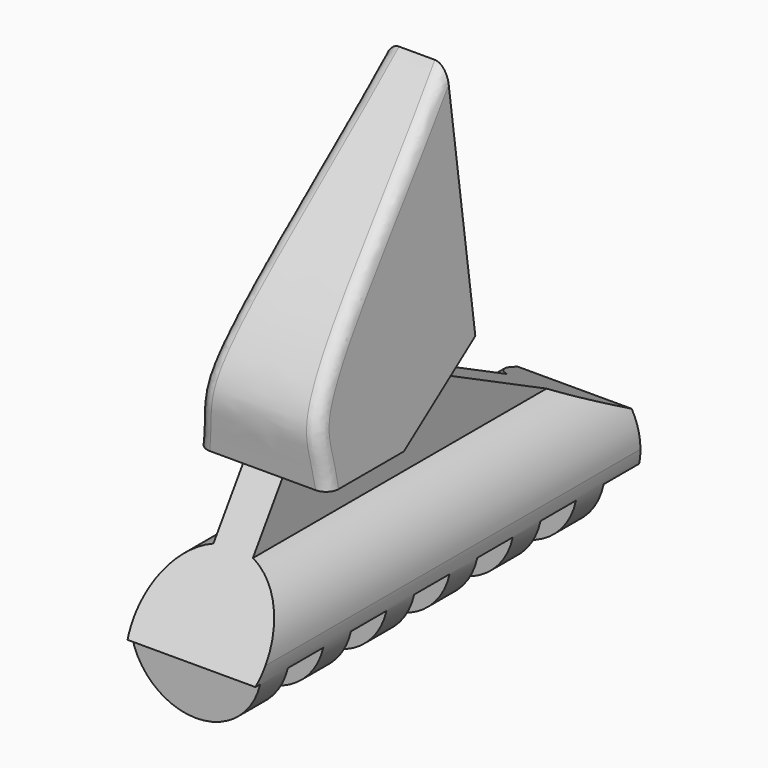
from build123d import *

# Parameters (mm, degrees)
F1_DEPTH  = 5.2959
F2_DEPTH  = 41.276
F4_DEPTH  = 3.7084
F12_DEPTH = 3.7084
F6_DEPTH  = 10.5918
F7_DEPTH  = 41.276
F8_W      = 3.5700032353
F8_H      = 0.1361034085
F8_H_2    = 4.0928895229
F8_H_3    = 0.1088827268
F8_H_4    = 4.1201102046
F8_H_5    = 0.0816620451
F8_H_6    = 4.1473308863
F8_H_7    = 0.0544413634
F8_H_8    = 4.174551568
F8_H_9    = 0.0272206817
F8_H_10   = 4.2017722497
F8_H_11   = 4.2289929314
F14_DEPTH = 12.7
F9_R      = 1.016


with BuildPart() as f1:
    # F0 (on Right) → F1 (new body, symmetric)
    with BuildSketch(Plane.YZ):
        Polygon((25.4, 38.1), (0, 0), (41.275, 0), (41.275, 7.9375), (25.4, 15.875), align=None)
    extrude(amount=F1_DEPTH, both=True)

    # F10 (on Front) → F2 (cut, through all)
    with BuildSketch(Plane.XZ):
        with BuildLine():
            Line((-1.5875, 14.8209), (-5.2959, 14.8209))
            Line((-5.2959, 14.8209), (-5.2959, 5.2959000144))
            ThreePointArc((-5.2959, 5.2959000144), (-4.2692972482, 8.4295333251), (-1.5875, 10.3482658379))
            Line((-1.5875, 10.3482658379), (-1.5875, 14.8209))
        make_face()
        with BuildLine():
            Line((5.2959, 5.2959), (5.2959, 14.8209))
            Line((5.2959, 14.8209), (1.5875, 14.8209))
            Line((1.5875, 14.8209), (1.5875, 10.3482658379))
            ThreePointArc((1.5875, 10.3482658379), (4.2692972525, 8.4295333193), (5.2959, 5.2959))
        make_face()
        with BuildLine():
            ThreePointArc((0, 0), (-3.7447668076, 1.5511332026), (-5.2959, 5.2959000144))
            Line((-5.2959, 5.2959000144), (-5.2959, 0))
            Line((-5.2959, 0), (0, 0))
        make_face()
        with BuildLine():
            ThreePointArc((5.2959, 5.2959), (3.7447668025, 1.5511331975), (0, 0))
            Line((0, 0), (5.2959, 0))
            Line((5.2959, 0), (5.2959, 5.2959))
        make_face()
    extrude(amount=-F2_DEPTH, mode=Mode.SUBTRACT)

    # F3 (on face) → F4 (cut)
    with BuildSketch(Plane.YZ.offset(5.2959)):
        Polygon((17.4625, 14.8209), (27.5082, 14.8209), (25.4, 15.875), (25.4, 19.5834), align=None)
    extrude(amount=-F4_DEPTH, mode=Mode.SUBTRACT)

    # F11 (on face) → F12 (cut)
    with BuildSketch(Plane(origin=(-5.2959, 0, 0), x_dir=(0, -1, 0), z_dir=(-1, 0, 0))):
        Polygon((-27.5082, 14.8209), (-17.4625, 14.8209), (-25.4, 19.5834), (-25.4, 15.875), align=None)
    extrude(amount=-F12_DEPTH, mode=Mode.SUBTRACT)

    # F5 (on face) → F6 (join)
    with BuildSketch(Plane.YZ.offset(5.2959)):
        with BuildLine():
            add(Edge.make_bspline(
                [(9.8806, 14.8209), (9.7887178245, 17.0000575052), (7.8190504565, 20.9662638554), (18.9792610557, 30.802658642), (25.4, 38.1)],
                knots=[0, 0, 0, 0, 0.3217761524, 1, 1, 1, 1], degree=3))
            Line((9.8806, 14.8209), (25.4, 38.1))
        make_face()
    extrude(amount=-F6_DEPTH)

    # F13 (on Front) → F7 (cut, through all)
    with BuildSketch(Plane.XZ):
        with BuildLine():
            add(Edge.make_bspline(
                [(-5.2959, 14.8209), (-5.2959, 15.5472858351), (-5.2959, 17.5957404535), (-5.2959, 22.9229933342), (-5.2959, 29.9563074991), (-5.2959, 35.6675528807), (-5.2959, 38.1)],
                knots=[0, 0, 0, 0, 2.1791575052, 6.1453638554, 15.981758642, 23.2791, 23.2791, 23.2791, 23.2791], degree=3))
            Line((-5.2959, 14.8209), (-2.38125, 38.1))
            Line((-2.38125, 38.1), (-5.2959, 38.1))
        make_face()
        with BuildLine():
            Line((2.38125, 38.1), (5.2959, 14.8209))
            add(Edge.make_bspline(
                [(5.2959, 14.8209), (5.2959, 15.5472858351), (5.2959, 17.5957404535), (5.2959, 22.9229933342), (5.2959, 29.9563074991), (5.2959, 35.6675528807), (5.2959, 38.1)],
                knots=[0, 0, 0, 0, 2.1791575052, 6.1453638554, 15.981758642, 23.2791, 23.2791, 23.2791, 23.2791], degree=3))
            Line((5.2959, 38.1), (2.38125, 38.1))
        make_face()
    extrude(amount=-F7_DEPTH, mode=Mode.SUBTRACT)

    # F8 (on Right) → F14 (cut, symmetric)
    with BuildSketch(Plane.YZ):
        Polygon((3.1753500641, -0.1633240902), (3.1753500641, 0), (3.1753500641, 4.0656688412), (-0.3946531713, 4.0656688412), (-0.3946531713, -0.1633240902), align=None)
        with Locations((7.7402901024, -0.0680517042)):
            Rectangle(F8_W, F8_H)
        with Locations((7.7402901024, 2.0464447615)):
            Rectangle(F8_W, F8_H_2)
        with Locations((14.0902317584, -0.0544413634)):
            Rectangle(F8_W, F8_H_3)
        with Locations((14.0902317584, 2.0600551023)):
            Rectangle(F8_W, F8_H_4)
        with Locations((20.4401734144, -0.0408310225)):
            Rectangle(F8_W, F8_H_5)
        with Locations((20.4401734144, 2.0736654432)):
            Rectangle(F8_W, F8_H_6)
        with Locations((26.7901150703, -0.0272206817)):
            Rectangle(F8_W, F8_H_7)
        with Locations((26.7901150703, 2.087275784)):
            Rectangle(F8_W, F8_H_8)
        with Locations((33.1400567263, -0.0136103408)):
            Rectangle(F8_W, F8_H_9)
        with Locations((33.1400567263, 2.1008861249)):
            Rectangle(F8_W, F8_H_10)
        with Locations((39.4899983823, 2.1144964657)):
            Rectangle(F8_W, F8_H_11)
    extrude(amount=F14_DEPTH, both=True, mode=Mode.SUBTRACT)

    # F9
    f9_edges = [f1.edges().sort_by_distance(p)[0] for p in [
        (3.714975, 15.399413, 27.447632),
        (-3.714975, 15.399413, 27.447632),
    ]]
    fillet(f9_edges, radius=F9_R)


solid = f1.part
